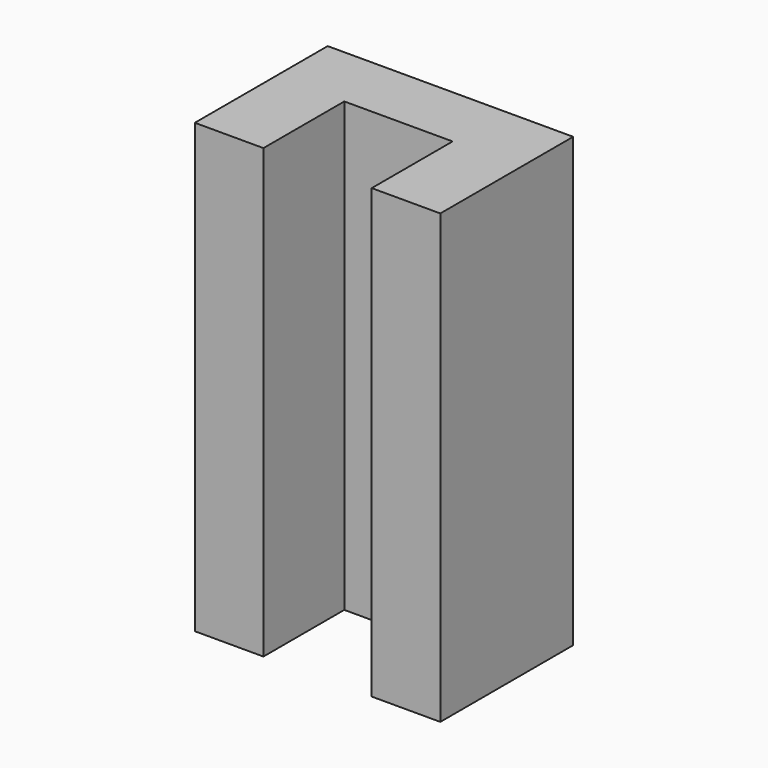
from build123d import *

# Parameters (mm, degrees)
PAD_DEPTH = 62


with BuildPart() as part:
    # Sketch → Pad (new body)
    with BuildSketch(Plane.XY):
        Polygon((0, 0), (9.5, 0), (9.5, 14), (24.5, 14), (24.5, 0), (34, 0), (34, 23), (0, 23), align=None)
    extrude(amount=PAD_DEPTH)


solid = part.part
